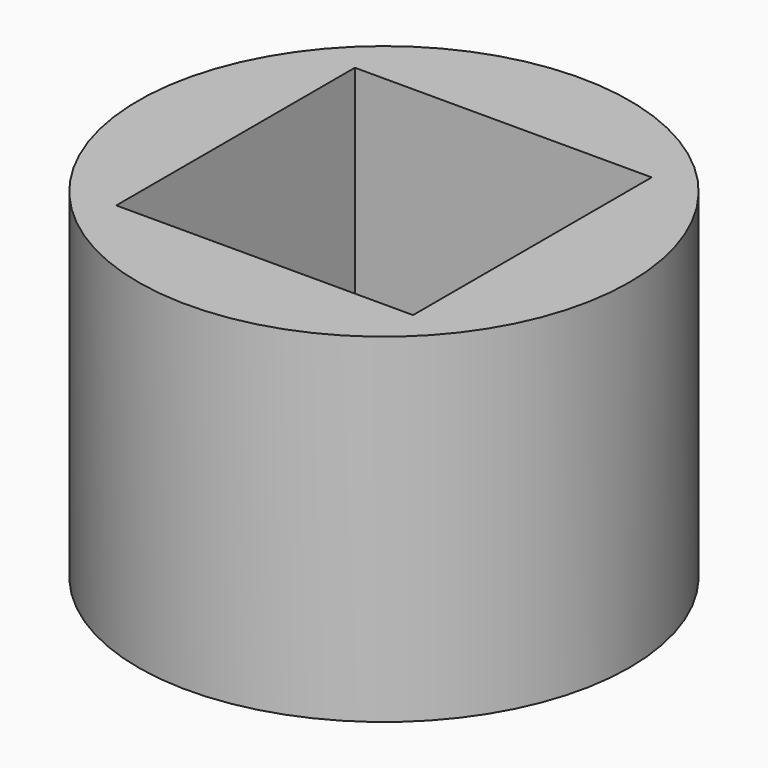
from build123d import *

# Parameters (mm, degrees)
F0_W     = 50.8
F0_H     = 50.8
F1_DEPTH = 50.8
F2_W     = 44.45
F2_H     = 44.66816
F3_DEPTH = 48.26
F4_R     = 36.802798
F5_DEPTH = 50.8
F7_DEPTH = 48.26


with BuildPart() as f1:
    # F0 (on Top) → F1 (new body)
    with BuildSketch(Plane.XY):
        Rectangle(F0_W, F0_H)
    extrude(amount=F1_DEPTH)

    # F2 (on face) → F3 (cut)
    with BuildSketch(Plane.XY.offset(50.8)):
        Rectangle(F2_W, F2_H)
    extrude(amount=-F3_DEPTH, mode=Mode.SUBTRACT)

    # F4 (on Top) → F5 (join)
    with BuildSketch(Plane.XY):
        Circle(F4_R)
    extrude(amount=F5_DEPTH)

    # F2 (on face) → F7 (cut)
    with BuildSketch(Plane.XY.offset(50.8)):
        Rectangle(F2_W, F2_H)
    extrude(amount=-F7_DEPTH, mode=Mode.SUBTRACT)


solid = f1.part
